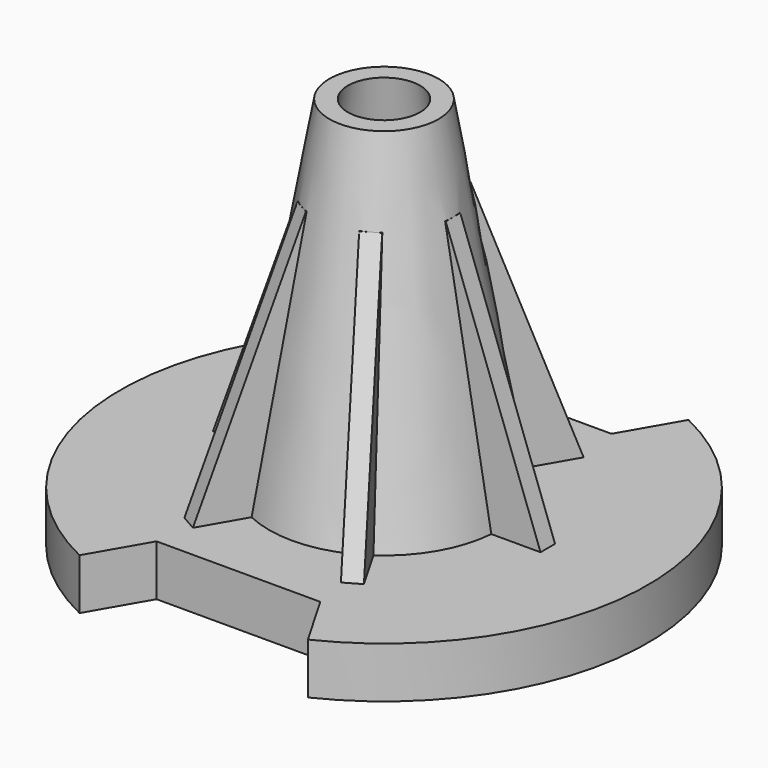
from build123d import *

# Parameters (mm, degrees)
SKETCH_R           = 15
PAD_DEPTH          = 108
PAD_TAPER          = -10
SKETCH001_R        = 72.5
PAD001_DEPTH       = 14
POCKET_DEPTH       = 571.52662
PAD002_DEPTH       = 2.5
POLARPATTERN_COUNT = 6


with BuildPart() as part:
    # Sketch (on XY_Plane of Origin) → Pad (new body)
    with BuildSketch(Plane.XY):
        Circle(SKETCH_R)
    extrude(amount=-PAD_DEPTH, taper=PAD_TAPER)

    # Sketch001 (on Face3 of Pad) → Pad001 (join)
    with BuildSketch(Plane(origin=(0, 0, -108), x_dir=(1, 0, 0), z_dir=(0, 0, -1))):
        Circle(SKETCH001_R)
    extrude(amount=-PAD001_DEPTH)

    # Sketch002 (on XY_Plane of Origin) → Pocket (cut, through all)
    with BuildSketch(Plane.XY):
        with BuildLine():
            Line((-31.369354, -65.362173), (-22.5, -50))
            Line((-22.5, -50), (22.5, -50))
            Line((22.5, -50), (31.369354, -65.362173))
            ThreePointArc((-31.369354, -65.362173), (0, -72.5), (31.369354, -65.362173))
        make_face()
    pocket = extrude(amount=-POCKET_DEPTH, mode=Mode.SUBTRACT)

    # Mirrored: Pocket across XZ
    add(pocket.mirror(Plane.XZ), mode=Mode.SUBTRACT)

    # Sketch003 (on XZ_Plane of Origin) → Groove (revolve, cut)
    with BuildSketch(Plane.XZ):
        Polygon((9.922867, 0), (28.966181, -108), (0, -108), (0, 0), align=None)
    revolve(axis=Axis((0, 0, 0), (0, 0, 1)), mode=Mode.SUBTRACT)

    # Sketch004 (on XZ_Plane of Origin) → Pad002 (join, symmetric)
    with BuildSketch(Plane.XZ):
        Polygon((31.369354, -94), (45, -94), (18.959115, -22.453256), (13.881982, -22.453256), (26.497603, -94), align=None)
    pad002 = extrude(amount=PAD002_DEPTH, both=True)

    # PolarPattern: Pad002 ×6 about axis
    polarpattern_axis = Axis((0, 0, 0), (0, 0, 1))
    for i in range(1, POLARPATTERN_COUNT):
        add(pad002.rotate(polarpattern_axis, i * 360 / POLARPATTERN_COUNT))


solid = part.part
